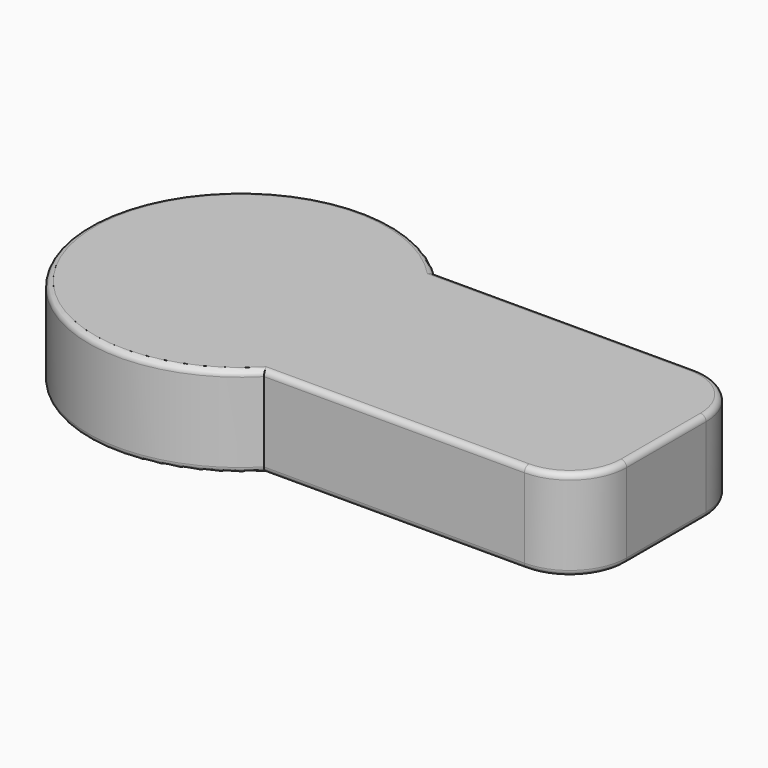
from build123d import *

# Parameters (mm, degrees)
F1_DEPTH = 8.128
F2_R     = 5.08
F3_R     = 0.508


with BuildPart() as f1:
    # F0 (on Top) → F1 (new body)
    with BuildSketch(Plane.XY):
        with BuildLine():
            ThreePointArc((9.7169721006, 19.05), (-13.6068060839, 9.525), (9.7169721006, 0))
            Line((9.7169721006, 0), (38.1, 0))
            Line((38.1, 0), (38.1, 19.05))
            Line((38.1, 19.05), (9.7169721006, 19.05))
        make_face()
    extrude(amount=F1_DEPTH)

    # F2
    f2_edges = [f1.edges().sort_by_distance(p)[0] for p in [
        (38.1, 19.05, 4.064),
        (38.1, 0, 4.064),
    ]]
    fillet(f2_edges, radius=F2_R)

    # F3
    f3_edges = [f1.edges().sort_by_distance(p)[0] for p in [
        (-13.606806, 9.525, 8.128),
        (21.368486, 0, 8.128),
        (36.612102, 1.487898, 8.128),
        (38.1, 9.525, 8.128),
        (36.612102, 17.562102, 8.128),
        (21.368486, 19.05, 8.128),
        (-13.606806, 9.525, 0),
        (21.368486, 0, 0),
        (36.612102, 1.487898, 0),
        (38.1, 9.525, 0),
        (21.368486, 19.05, 0),
        (36.612102, 17.562102, 0),
    ]]
    fillet(f3_edges, radius=F3_R)


solid = f1.part
